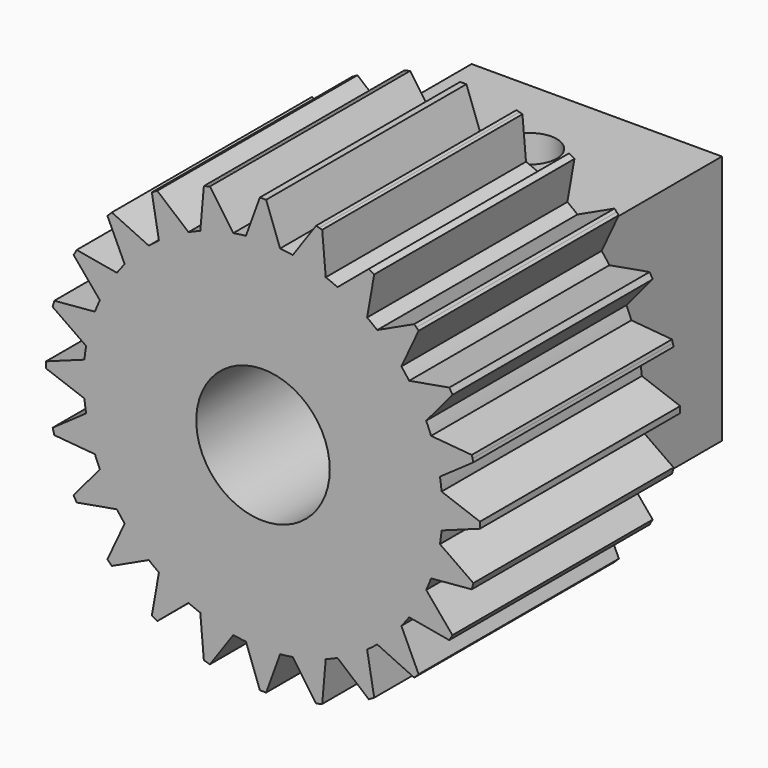
from build123d import *

# Parameters (mm, degrees)
F0_R     = 4
F1_DEPTH = 15
F2_W     = 15
F2_H     = 15
F2_R     = 4
F3_DEPTH = 10
F4_R     = 1.6
F5_DEPTH = 4.833939544
F6_R     = 0.25
F7_DEPTH = 1


with BuildPart() as f1:
    # F0 (on Front) → F1 (new body)
    with BuildSketch(Plane.XZ):
        with BuildLine():
            ThreePointArc((10.701095609, -1.0242327697), (10.7377669419, -0.5126998162), (10.75, 0))
            ThreePointArc((10.75, 0), (10.7377669419, 0.5126998162), (10.701095609, 1.0242327697))
            ThreePointArc((10.701095609, 1.0242327697), (10.6580322598, 1.4031565664), (10.6015555658, 1.7803144627))
            ThreePointArc((10.6015555658, 1.7803144627), (10.3837026326, 2.7823047349), (10.0713736709, 3.7589802315))
            ThreePointArc((10.0713736709, 3.7589802315), (9.9317049745, 4.1138468979), (9.7795370306, 4.4635362065))
            ThreePointArc((9.7795370306, 4.4635362065), (9.3097730907, 5.375), (8.7553042609, 6.2375594025))
            ThreePointArc((8.7553042609, 6.2375594025), (8.5285484081, 6.5441853618), (8.2910592083, 6.8425753343))
            ThreePointArc((8.2910592083, 6.8425753343), (7.6013978978, 7.6013978978), (6.8425753343, 8.2910592083))
            ThreePointArc((6.8425753343, 8.2910592083), (6.5441853618, 8.5285484081), (6.2375594025, 8.7553042609))
            ThreePointArc((6.2375594025, 8.7553042609), (5.375, 9.3097730907), (4.4635362065, 9.7795370306))
            ThreePointArc((4.4635362065, 9.7795370306), (4.1138468979, 9.9317049745), (3.7589802315, 10.0713736709))
            ThreePointArc((3.7589802315, 10.0713736709), (2.7823047349, 10.3837026326), (1.7803144627, 10.6015555658))
            ThreePointArc((1.7803144627, 10.6015555658), (1.4031565664, 10.6580322598), (1.0242327697, 10.701095609))
            ThreePointArc((1.0242327697, 10.701095609), (0, 10.75), (-1.0242327697, 10.701095609))
            ThreePointArc((-1.0242327697, 10.701095609), (-1.4031565664, 10.6580322598), (-1.7803144627, 10.6015555658))
            ThreePointArc((-1.7803144627, 10.6015555658), (-2.7823047349, 10.3837026326), (-3.7589802315, 10.0713736709))
            ThreePointArc((-3.7589802315, 10.0713736709), (-4.1138468979, 9.9317049745), (-4.4635362065, 9.7795370306))
            ThreePointArc((-4.4635362065, 9.7795370306), (-5.375, 9.3097730907), (-6.2375594025, 8.7553042609))
            ThreePointArc((-6.2375594025, 8.7553042609), (-6.5441853618, 8.5285484081), (-6.8425753343, 8.2910592083))
            ThreePointArc((-6.8425753343, 8.2910592083), (-7.6013978978, 7.6013978978), (-8.2910592083, 6.8425753343))
            ThreePointArc((-8.2910592083, 6.8425753343), (-8.5285484081, 6.5441853618), (-8.7553042609, 6.2375594025))
            ThreePointArc((-8.7553042609, 6.2375594025), (-9.3097730907, 5.375), (-9.7795370306, 4.4635362065))
            ThreePointArc((-9.7795370306, 4.4635362065), (-9.9317049745, 4.1138468979), (-10.0713736709, 3.7589802315))
            ThreePointArc((-10.0713736709, 3.7589802315), (-10.3837026326, 2.7823047349), (-10.6015555658, 1.7803144627))
            ThreePointArc((-10.6015555658, 1.7803144627), (-10.6580322598, 1.4031565664), (-10.701095609, 1.0242327697))
            ThreePointArc((-10.701095609, 1.0242327697), (-10.75, 0), (-10.701095609, -1.0242327697))
            ThreePointArc((-10.701095609, -1.0242327697), (-10.6580322598, -1.4031565664), (-10.6015555658, -1.7803144627))
            ThreePointArc((-10.6015555658, -1.7803144627), (-10.3837026326, -2.7823047349), (-10.0713736709, -3.7589802315))
            ThreePointArc((-10.0713736709, -3.7589802315), (-9.9317049745, -4.1138468979), (-9.7795370306, -4.4635362065))
            ThreePointArc((-9.7795370306, -4.4635362065), (-9.3097730907, -5.375), (-8.7553042609, -6.2375594025))
            ThreePointArc((-8.7553042609, -6.2375594025), (-8.5285484081, -6.5441853618), (-8.2910592083, -6.8425753343))
            ThreePointArc((-8.2910592083, -6.8425753343), (-7.6013978978, -7.6013978978), (-6.8425753343, -8.2910592083))
            ThreePointArc((-6.8425753343, -8.2910592083), (-6.5441853618, -8.5285484081), (-6.2375594025, -8.7553042609))
            ThreePointArc((-6.2375594025, -8.7553042609), (-5.375, -9.3097730907), (-4.4635362065, -9.7795370306))
            ThreePointArc((-4.4635362065, -9.7795370306), (-4.1138468979, -9.9317049745), (-3.7589802315, -10.0713736709))
            ThreePointArc((-3.7589802315, -10.0713736709), (-2.7823047349, -10.3837026326), (-1.7803144627, -10.6015555658))
            ThreePointArc((-1.7803144627, -10.6015555658), (-1.4031565664, -10.6580322598), (-1.0242327697, -10.701095609))
            ThreePointArc((-1.0242327697, -10.701095609), (0, -10.75), (1.0242327697, -10.701095609))
            ThreePointArc((1.0242327697, -10.701095609), (1.4031565664, -10.6580322598), (1.7803144627, -10.6015555658))
            ThreePointArc((1.7803144627, -10.6015555658), (2.7823047349, -10.3837026326), (3.7589802315, -10.0713736709))
            ThreePointArc((3.7589802315, -10.0713736709), (4.1138468979, -9.9317049745), (4.4635362065, -9.7795370306))
            ThreePointArc((4.4635362065, -9.7795370306), (5.375, -9.3097730907), (6.2375594025, -8.7553042609))
            ThreePointArc((6.2375594025, -8.7553042609), (6.5441853618, -8.5285484081), (6.8425753343, -8.2910592083))
            ThreePointArc((6.8425753343, -8.2910592083), (7.6013978978, -7.6013978978), (8.2910592083, -6.8425753343))
            ThreePointArc((8.2910592083, -6.8425753343), (8.5285484081, -6.5441853618), (8.7553042609, -6.2375594025))
            ThreePointArc((8.7553042609, -6.2375594025), (9.3097730907, -5.375), (9.7795370306, -4.4635362065))
            ThreePointArc((9.7795370306, -4.4635362065), (9.9317049745, -4.1138468979), (10.0713736709, -3.7589802315))
            ThreePointArc((10.0713736709, -3.7589802315), (10.3837026326, -2.7823047349), (10.6015555658, -1.7803144627))
            ThreePointArc((10.6015555658, -1.7803144627), (10.6580322598, -1.4031565664), (10.701095609, -1.0242327697))
        make_face()
        Circle(F0_R, mode=Mode.SUBTRACT)
        with BuildLine():
            ThreePointArc((10.701095609, 1.0242327697), (10.7377669419, 0.5126998162), (10.75, 0))
            ThreePointArc((10.75, 0), (10.7377669419, -0.5126998162), (10.701095609, -1.0242327697))
            Line((10.701095609, -1.0242327697), (13, -0.1875))
            Line((13, -0.1875), (13, 0))
            Line((13, 0), (13, 0.1875))
            Line((13, 0.1875), (10.701095609, 1.0242327697))
        make_face()
        with BuildLine():
            ThreePointArc((10.0713736709, 3.7589802315), (10.3837026326, 2.7823047349), (10.6015555658, 1.7803144627))
            Line((10.6015555658, 1.7803144627), (12.6055643127, 3.1835364939))
            Line((12.6055643127, 3.1835364939), (12.5570357418, 3.3646475863))
            Line((12.5570357418, 3.3646475863), (12.5085071708, 3.5457586788))
            Line((12.5085071708, 3.5457586788), (10.0713736709, 3.7589802315))
        make_face()
        with BuildLine():
            Line((12.6055643127, -3.1835364939), (10.6015555658, -1.7803144627))
            ThreePointArc((10.6015555658, -1.7803144627), (10.3837026326, -2.7823047349), (10.0713736709, -3.7589802315))
            Line((10.0713736709, -3.7589802315), (12.5085071708, -3.5457586788))
            Line((12.5085071708, -3.5457586788), (12.5570357418, -3.3646475863))
            Line((12.5570357418, -3.3646475863), (12.6055643127, -3.1835364939))
        make_face()
        with BuildLine():
            ThreePointArc((8.7553042609, 6.2375594025), (9.3097730907, 5.375), (9.7795370306, 4.4635362065))
            Line((9.7795370306, 4.4635362065), (11.3520802492, 6.3376202368))
            Line((11.3520802492, 6.3376202368), (11.2583302492, 6.5))
            Line((11.2583302492, 6.5), (11.1645802492, 6.6623797632))
            Line((11.1645802492, 6.6623797632), (8.7553042609, 6.2375594025))
        make_face()
        with BuildLine():
            Line((11.3520802492, -6.3376202368), (9.7795370306, -4.4635362065))
            ThreePointArc((9.7795370306, -4.4635362065), (9.3097730907, -5.375), (8.7553042609, -6.2375594025))
            Line((8.7553042609, -6.2375594025), (11.1645802492, -6.6623797632))
            Line((11.1645802492, -6.6623797632), (11.2583302492, -6.5))
            Line((11.2583302492, -6.5), (11.3520802492, -6.3376202368))
        make_face()
        with BuildLine():
            ThreePointArc((6.8425753343, 8.2910592083), (7.6013978978, 7.6013978978), (8.2910592083, 6.8425753343))
            Line((8.2910592083, 6.8425753343), (9.3249706769, 9.059805634))
            Line((9.3249706769, 9.059805634), (9.1923881554, 9.1923881554))
            Line((9.1923881554, 9.1923881554), (9.059805634, 9.3249706769))
            Line((9.059805634, 9.3249706769), (6.8425753343, 8.2910592083))
        make_face()
        with BuildLine():
            Line((9.3249706769, -9.059805634), (8.2910592083, -6.8425753343))
            ThreePointArc((8.2910592083, -6.8425753343), (7.6013978978, -7.6013978978), (6.8425753343, -8.2910592083))
            Line((6.8425753343, -8.2910592083), (9.059805634, -9.3249706769))
            Line((9.059805634, -9.3249706769), (9.1923881554, -9.1923881554))
            Line((9.1923881554, -9.1923881554), (9.3249706769, -9.059805634))
        make_face()
        with BuildLine():
            ThreePointArc((4.4635362065, 9.7795370306), (5.375, 9.3097730907), (6.2375594025, 8.7553042609))
            Line((6.2375594025, 8.7553042609), (6.6623797632, 11.1645802492))
            Line((6.6623797632, 11.1645802492), (6.5, 11.2583302492))
            Line((6.5, 11.2583302492), (6.3376202368, 11.3520802492))
            Line((6.3376202368, 11.3520802492), (4.4635362065, 9.7795370306))
        make_face()
        with BuildLine():
            Line((6.6623797632, -11.1645802492), (6.2375594025, -8.7553042609))
            ThreePointArc((6.2375594025, -8.7553042609), (5.375, -9.3097730907), (4.4635362065, -9.7795370306))
            Line((4.4635362065, -9.7795370306), (6.3376202368, -11.3520802492))
            Line((6.3376202368, -11.3520802492), (6.5, -11.2583302492))
            Line((6.5, -11.2583302492), (6.6623797632, -11.1645802492))
        make_face()
        with BuildLine():
            ThreePointArc((1.7803144627, 10.6015555658), (2.7823047349, 10.3837026326), (3.7589802315, 10.0713736709))
            Line((3.7589802315, 10.0713736709), (3.5457586788, 12.5085071708))
            Line((3.5457586788, 12.5085071708), (3.3646475863, 12.5570357418))
            Line((3.3646475863, 12.5570357418), (3.1835364939, 12.6055643127))
            Line((3.1835364939, 12.6055643127), (1.7803144627, 10.6015555658))
        make_face()
        with BuildLine():
            Line((3.5457586788, -12.5085071708), (3.7589802315, -10.0713736709))
            ThreePointArc((3.7589802315, -10.0713736709), (2.7823047349, -10.3837026326), (1.7803144627, -10.6015555658))
            Line((1.7803144627, -10.6015555658), (3.1835364939, -12.6055643127))
            Line((3.1835364939, -12.6055643127), (3.3646475863, -12.5570357418))
            Line((3.3646475863, -12.5570357418), (3.5457586788, -12.5085071708))
        make_face()
        with BuildLine():
            ThreePointArc((-1.0242327697, 10.701095609), (0, 10.75), (1.0242327697, 10.701095609))
            Line((1.0242327697, 10.701095609), (0.1875, 13))
            Line((0.1875, 13), (0, 13))
            Line((0, 13), (-0.1875, 13))
            Line((-0.1875, 13), (-1.0242327697, 10.701095609))
        make_face()
        with BuildLine():
            Line((0.1875, -13), (1.0242327697, -10.701095609))
            ThreePointArc((1.0242327697, -10.701095609), (0, -10.75), (-1.0242327697, -10.701095609))
            Line((-1.0242327697, -10.701095609), (-0.1875, -13))
            Line((-0.1875, -13), (0, -13))
            Line((0, -13), (0.1875, -13))
        make_face()
        with BuildLine():
            ThreePointArc((-3.7589802315, 10.0713736709), (-2.7823047349, 10.3837026326), (-1.7803144627, 10.6015555658))
            Line((-1.7803144627, 10.6015555658), (-3.1835364939, 12.6055643127))
            Line((-3.1835364939, 12.6055643127), (-3.3646475863, 12.5570357418))
            Line((-3.3646475863, 12.5570357418), (-3.5457586788, 12.5085071708))
            Line((-3.5457586788, 12.5085071708), (-3.7589802315, 10.0713736709))
        make_face()
        with BuildLine():
            Line((-3.1835364939, -12.6055643127), (-1.7803144627, -10.6015555658))
            ThreePointArc((-1.7803144627, -10.6015555658), (-2.7823047349, -10.3837026326), (-3.7589802315, -10.0713736709))
            Line((-3.7589802315, -10.0713736709), (-3.5457586788, -12.5085071708))
            Line((-3.5457586788, -12.5085071708), (-3.3646475863, -12.5570357418))
            Line((-3.3646475863, -12.5570357418), (-3.1835364939, -12.6055643127))
        make_face()
        with BuildLine():
            ThreePointArc((-6.2375594025, 8.7553042609), (-5.375, 9.3097730907), (-4.4635362065, 9.7795370306))
            Line((-4.4635362065, 9.7795370306), (-6.3376202368, 11.3520802492))
            Line((-6.3376202368, 11.3520802492), (-6.5, 11.2583302492))
            Line((-6.5, 11.2583302492), (-6.6623797632, 11.1645802492))
            Line((-6.6623797632, 11.1645802492), (-6.2375594025, 8.7553042609))
        make_face()
        with BuildLine():
            Line((-6.3376202368, -11.3520802492), (-4.4635362065, -9.7795370306))
            ThreePointArc((-4.4635362065, -9.7795370306), (-5.375, -9.3097730907), (-6.2375594025, -8.7553042609))
            Line((-6.2375594025, -8.7553042609), (-6.6623797632, -11.1645802492))
            Line((-6.6623797632, -11.1645802492), (-6.5, -11.2583302492))
            Line((-6.5, -11.2583302492), (-6.3376202368, -11.3520802492))
        make_face()
        with BuildLine():
            ThreePointArc((-8.2910592083, 6.8425753343), (-7.6013978978, 7.6013978978), (-6.8425753343, 8.2910592083))
            Line((-6.8425753343, 8.2910592083), (-9.059805634, 9.3249706769))
            Line((-9.059805634, 9.3249706769), (-9.1923881554, 9.1923881554))
            Line((-9.1923881554, 9.1923881554), (-9.3249706769, 9.059805634))
            Line((-9.3249706769, 9.059805634), (-8.2910592083, 6.8425753343))
        make_face()
        with BuildLine():
            Line((-9.059805634, -9.3249706769), (-6.8425753343, -8.2910592083))
            ThreePointArc((-6.8425753343, -8.2910592083), (-7.6013978978, -7.6013978978), (-8.2910592083, -6.8425753343))
            Line((-8.2910592083, -6.8425753343), (-9.3249706769, -9.059805634))
            Line((-9.3249706769, -9.059805634), (-9.1923881554, -9.1923881554))
            Line((-9.1923881554, -9.1923881554), (-9.059805634, -9.3249706769))
        make_face()
        with BuildLine():
            ThreePointArc((-9.7795370306, 4.4635362065), (-9.3097730907, 5.375), (-8.7553042609, 6.2375594025))
            Line((-8.7553042609, 6.2375594025), (-11.1645802492, 6.6623797632))
            Line((-11.1645802492, 6.6623797632), (-11.2583302492, 6.5))
            Line((-11.2583302492, 6.5), (-11.3520802492, 6.3376202368))
            Line((-11.3520802492, 6.3376202368), (-9.7795370306, 4.4635362065))
        make_face()
        with BuildLine():
            Line((-11.1645802492, -6.6623797632), (-8.7553042609, -6.2375594025))
            ThreePointArc((-8.7553042609, -6.2375594025), (-9.3097730907, -5.375), (-9.7795370306, -4.4635362065))
            Line((-9.7795370306, -4.4635362065), (-11.3520802492, -6.3376202368))
            Line((-11.3520802492, -6.3376202368), (-11.2583302492, -6.5))
            Line((-11.2583302492, -6.5), (-11.1645802492, -6.6623797632))
        make_face()
        with BuildLine():
            ThreePointArc((-10.6015555658, 1.7803144627), (-10.3837026326, 2.7823047349), (-10.0713736709, 3.7589802315))
            Line((-10.0713736709, 3.7589802315), (-12.5085071708, 3.5457586788))
            Line((-12.5085071708, 3.5457586788), (-12.5570357418, 3.3646475863))
            Line((-12.5570357418, 3.3646475863), (-12.6055643127, 3.1835364939))
            Line((-12.6055643127, 3.1835364939), (-10.6015555658, 1.7803144627))
        make_face()
        with BuildLine():
            Line((-12.5085071708, -3.5457586788), (-10.0713736709, -3.7589802315))
            ThreePointArc((-10.0713736709, -3.7589802315), (-10.3837026326, -2.7823047349), (-10.6015555658, -1.7803144627))
            Line((-10.6015555658, -1.7803144627), (-12.6055643127, -3.1835364939))
            Line((-12.6055643127, -3.1835364939), (-12.5570357418, -3.3646475863))
            Line((-12.5570357418, -3.3646475863), (-12.5085071708, -3.5457586788))
        make_face()
        with BuildLine():
            ThreePointArc((-10.701095609, -1.0242327697), (-10.75, 0), (-10.701095609, 1.0242327697))
            Line((-10.701095609, 1.0242327697), (-13, 0.1875))
            Line((-13, 0.1875), (-13, 0))
            Line((-13, 0), (-13, -0.1875))
            Line((-13, -0.1875), (-10.701095609, -1.0242327697))
        make_face()
    extrude(amount=F1_DEPTH)

    # F2 (on Front) → F3 (join)
    with BuildSketch(Plane.XZ):
        Rectangle(F2_W, F2_H)
        Circle(F2_R, mode=Mode.SUBTRACT)
    extrude(amount=-F3_DEPTH)

    # F4 (on face) → F5 (cut, up to face)
    with BuildSketch(Plane.XY.offset(7.5)):
        with Locations((0, 5)):
            Circle(F4_R)
    extrude(amount=-F5_DEPTH, mode=Mode.SUBTRACT)


with BuildPart() as f7:
    # F6 (on face) → F7 (new body)
    with BuildSketch(Plane.YZ.offset(7.5)):
        with Locations((5, 0)):
            Circle(F6_R)
    extrude(amount=-F7_DEPTH)


solid = Compound([f1.part, f7.part])
